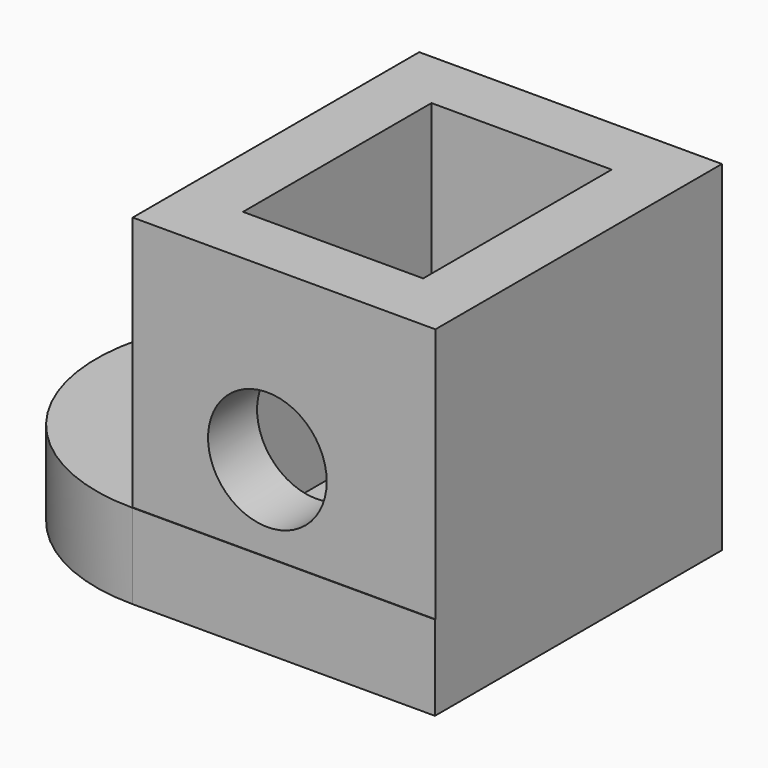
from build123d import *

# Parameters (mm, degrees)
F0_W     = 64.236599952
F0_H     = 76.123803854
F1_DEPTH = 18
F2_W     = 64.236599952
F2_H     = 54.1637830138
F3_DEPTH = 76
F5_T     = -13
F4_R     = 12.5879419165
F6_DEPTH = 205.6


with BuildPart() as f1:
    # F0 (on Top) → F1 (new body)
    with BuildSketch(Plane.XY):
        with Locations((-4.2166989297, -5.8254562318)):
            Rectangle(F0_W, F0_H)
        with BuildLine():
            Line((-36.3349989057, -43.8873581588), (-36.3349989057, 32.2364456952))
            ThreePointArc((-36.3349989057, 32.2364456952), (-74.3969008327, -5.8254562318), (-36.3349989057, -43.8873581588))
        make_face()
    extrude(amount=F1_DEPTH)

    # F2 (on face) → F3 (join)
    with BuildSketch(Plane(origin=(0, 32.2364456952, 0), x_dir=(-1, 0, 0), z_dir=(0, 1, 0))):
        with Locations((4.2166989297, 45.0818915069)):
            Rectangle(F2_W, F2_H)
    extrude(amount=-F3_DEPTH)

    # F5
    f5_openings = [f1.faces().sort_by_distance(p)[0] for p in [
        (-4.216699, -5.763554, 72.163783),
    ]]
    offset(amount=F5_T, openings=f5_openings, kind=Kind.INTERSECTION)

    # F4 (on face) → F6 (cut)
    with BuildSketch(Plane.XZ.offset(43.7635543048)):
        with Locations((-7.7566844411, 36.2076386809)):
            Circle(F4_R)
    extrude(amount=-F6_DEPTH, mode=Mode.SUBTRACT)


solid = f1.part
